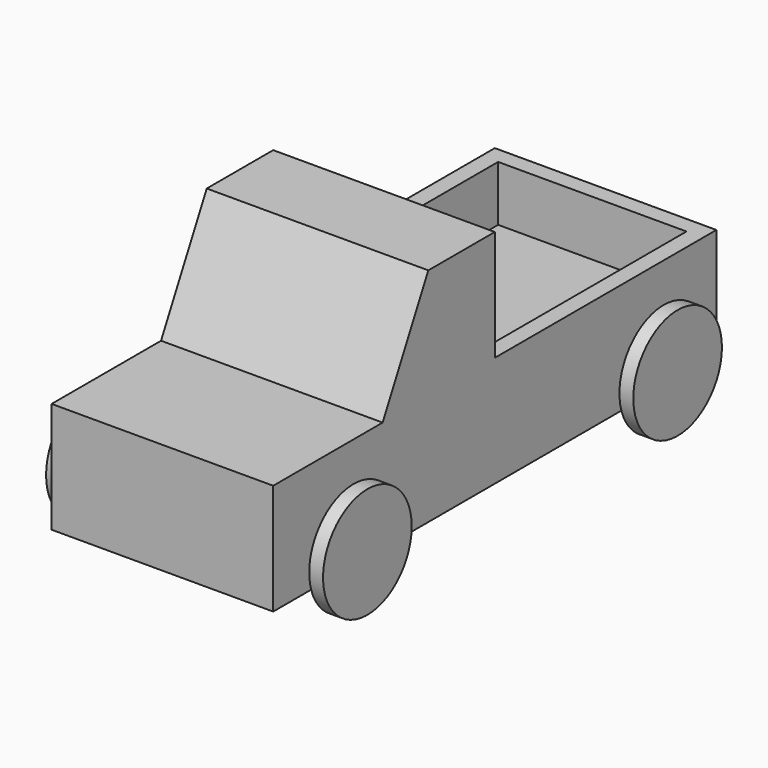
from build123d import *

# Parameters (mm, degrees)
F0_W      = 15
F0_H      = 20
F1_DEPTH  = 40
F2_DEPTH  = 25
F3_DEPTH  = 40.001
F4_R      = 2.5
F5_DEPTH  = 40.001
F6_W      = 34
F6_H      = 44
F7_DEPTH  = 10
F8_R      = 1.25
F9_DEPTH  = 42.5
F10_DEPTH = 2.5
F11_DEPTH = 2.5
F12_R     = 10
F13_DEPTH = 2.5
F14_R     = 10
F15_DEPTH = 2.5
F16_R     = 10
F17_DEPTH = 2.5
F18_R     = 10
F19_DEPTH = 2.5


with BuildPart() as f1:
    # F0 (on Right) → F1 (new body)
    with BuildSketch(Plane.YZ):
        Polygon((50, -10), (50, 10), (0, 10), (-15, 10), (-25.30775, 10), (-50, 10), (-50, -10), align=None)
        with Locations((-7.5, 20)):
            Rectangle(F0_W, F0_H)
        Polygon((-25.30775, 10), (-15, 10), (-15, 30), align=None)
        Polygon((-25.30775, 30), (-25.30775, 10), (-15, 30), align=None)
    extrude(amount=F1_DEPTH)

    # F0 (on Right) + F1_face (on face) → F2 (join)
    with BuildSketch(Plane.YZ):
        Polygon((50, -10), (50, 10), (0, 10), (-15, 10), (-25.30775, 10), (-50, 10), (-50, -10), align=None)
        with Locations((-7.5, 20)):
            Rectangle(F0_W, F0_H)
        Polygon((-25.30775, 10), (-15, 10), (-15, 30), align=None)
        Polygon((-25.30775, 30), (-25.30775, 10), (-15, 30), align=None)
    with BuildSketch(Plane(origin=(0, -2.5556368623, 4.0392952551), x_dir=(0, 1, 0), z_dir=(-1, 0, 0))):
        Polygon((52.5556368623, -5.9607047449), (52.5556368623, 14.0392952551), (-47.4443631377, 14.0392952551), (-47.4443631377, -5.9607047449), (-22.7521131377, -5.9607047449), (-22.7521131377, -25.9607047449), (2.5556368623, -25.9607047449), (2.5556368623, -5.9607047449), align=None)
    extrude(amount=F2_DEPTH, dir=(1, 0, 0))

    # F0 (on Right) → F3 (cut, through all)
    with BuildSketch(Plane.YZ):
        Polygon((-25.30775, 30), (-25.30775, 10), (-15, 30), align=None)
    extrude(amount=F3_DEPTH, mode=Mode.SUBTRACT)

    # F4 (on face) → F5 (cut, through all)
    with BuildSketch(Plane.YZ.offset(40)):
        with Locations((-35, -5)):
            Circle(F4_R)
        with Locations((35, -5)):
            Circle(F4_R)
    extrude(amount=-F5_DEPTH, mode=Mode.SUBTRACT)

    # F6 (on face) → F7 (cut)
    with BuildSketch(Plane.XY.offset(10)):
        with Locations((20, 25)):
            Rectangle(F6_W, F6_H)
    extrude(amount=-F7_DEPTH, mode=Mode.SUBTRACT)


with BuildPart() as f9:
    # F8 (on Right) → F9 (new body)
    with BuildSketch(Plane.YZ):
        with Locations((35, -5)):
            Circle(F8_R)
    extrude(amount=F9_DEPTH)

    # F10 (add): a face of the model
    f10_faces = [f9.faces().sort_by_distance(p)[0] for p in [
        (0, 35, -5),
    ]]
    extrude(f10_faces, amount=F10_DEPTH)

    # F12 (on face) → F13 (join)
    with BuildSketch(Plane(origin=(-2.5, 0, 0), x_dir=(0, -1, 0), z_dir=(-1, 0, 0))):
        with Locations((-35, -5)):
            Circle(F12_R)
    extrude(amount=F13_DEPTH)

    # F18 (on face) → F19 (join)
    with BuildSketch(Plane.YZ.offset(42.5)):
        with Locations((35, -5)):
            Circle(F18_R)
    extrude(amount=F19_DEPTH)


with BuildPart() as f9b:
    # F8 (on Right) → F9, piece 2 (new body)
    with BuildSketch(Plane.YZ):
        with Locations((-35, -5)):
            Circle(F8_R)
    extrude(amount=F9_DEPTH)

    # F11 (add): a face of the model
    f11_faces = [f9b.faces().sort_by_distance(p)[0] for p in [
        (0, -35, -5),
    ]]
    extrude(f11_faces, amount=F11_DEPTH)

    # F14 (on face) → F15 (join)
    with BuildSketch(Plane(origin=(-2.5, 0, 0), x_dir=(0, -1, 0), z_dir=(-1, 0, 0))):
        with Locations((35, -5)):
            Circle(F14_R)
    extrude(amount=F15_DEPTH)

    # F16 (on face) → F17 (join)
    with BuildSketch(Plane.YZ.offset(42.5)):
        with Locations((-35, -5)):
            Circle(F16_R)
    extrude(amount=F17_DEPTH)


solid = Compound([f1.part, f9.part, f9b.part])
